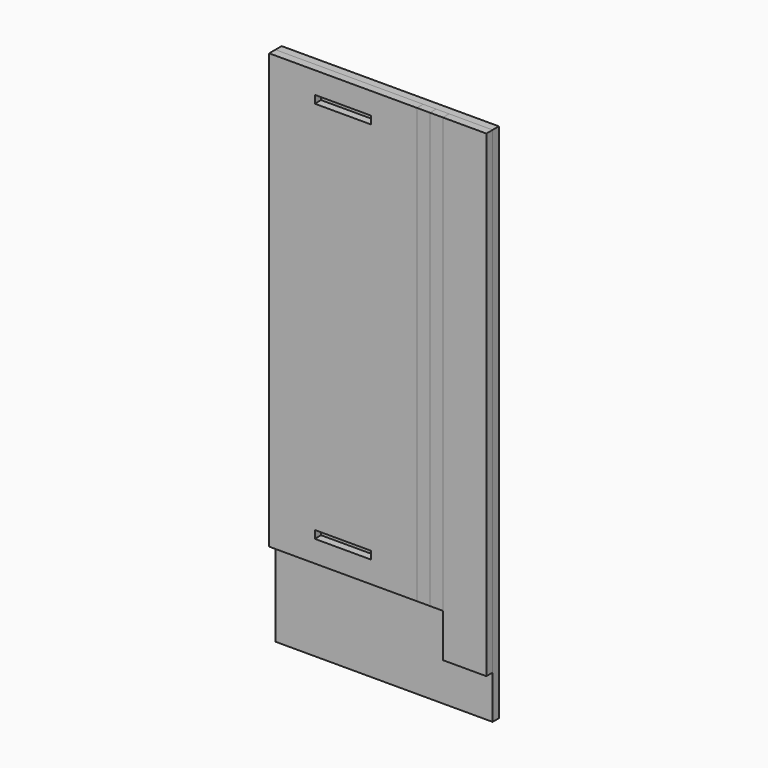
from build123d import *

# Parameters (mm, degrees)
F0_W     = 500
F0_H     = 1200
F1_DEPTH = 18
F2_W     = 340
F2_H     = 1000
F3_DEPTH = 18
F2_W_2   = 30
F4_DEPTH = 18
F5_DEPTH = 18
F6_DEPTH = 18
F7_W     = 130
F7_H     = 18
F8_DEPTH = 18


with BuildPart() as f1:
    # F0 (on Front) → F1 (new body)
    with BuildSketch(Plane.XZ):
        Rectangle(F0_W, F0_H)
    extrude(amount=F1_DEPTH)


with BuildPart() as f3:
    # F2 (on face) → F3 (new body)
    with BuildSketch(Plane.XZ.offset(18)):
        with Locations((-80, 100)):
            Rectangle(F2_W, F2_H)
    extrude(amount=F3_DEPTH)

    # F7 (on face) → F8 (cut, through all)
    with BuildSketch(Plane.XZ.offset(36)):
        Polygon((-80, 550), (-145, 550), (-145, 532), (-15, 532), (-15, 550), align=None)
        with Locations((-80, -341)):
            Rectangle(F7_W, F7_H)
    extrude(amount=-F8_DEPTH, mode=Mode.SUBTRACT)


with BuildPart() as f4:
    # F2 (on face) → F4 (new body)
    with BuildSketch(Plane.XZ.offset(18)):
        with Locations((105, 100)):
            Rectangle(F2_W_2, F2_H)
    extrude(amount=F4_DEPTH)


with BuildPart() as f5:
    # F2 (on face) → F5 (new body)
    with BuildSketch(Plane.XZ.offset(18)):
        with Locations((135, 100)):
            Rectangle(F2_W_2, F2_H)
    extrude(amount=F5_DEPTH)


with BuildPart() as f6:
    # F2 (on face) → F6 (new body)
    with BuildSketch(Plane.XZ.offset(18)):
        Polygon((250, 600), (150, 600), (150, -400), (150, -500), (250, -500), align=None)
    extrude(amount=F6_DEPTH)


solid = Compound([f1.part, f3.part, f4.part, f5.part, f6.part])
